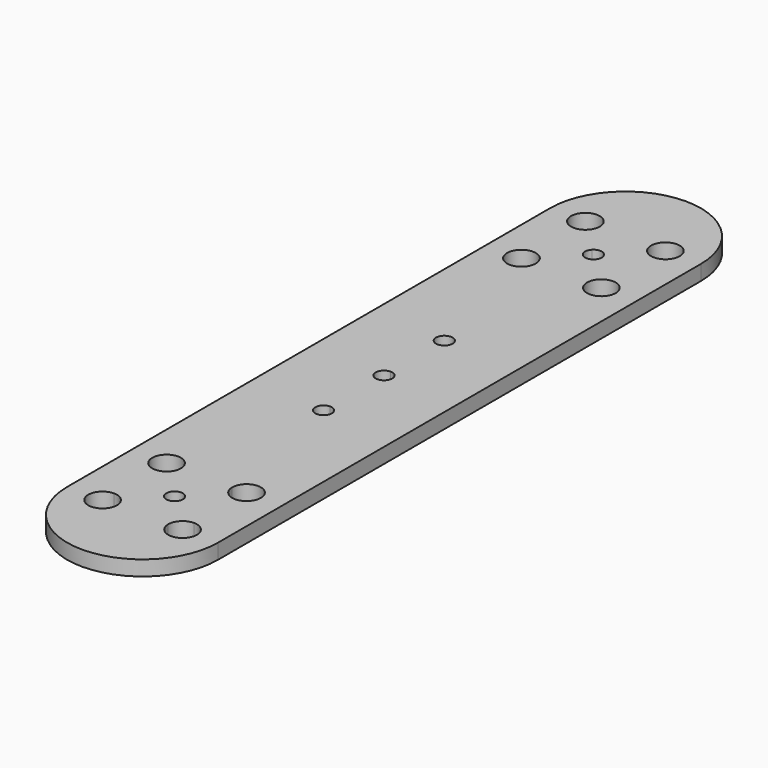
from build123d import *

# Parameters (mm, degrees)
F0_R     = 2.413
F1_DEPTH = 2.54
F2_R     = 1.397
F3_DEPTH = 2.541


with BuildPart() as f1:
    # F0 (on Top) → F1 (new body)
    with BuildSketch(Plane.XY):
        with BuildLine():
            Line((12.7, -50.8), (12.7, 50.8))
            ThreePointArc((12.7, 50.8), (0, 63.5), (-12.7, 50.8))
            Line((-12.7, 50.8), (-12.7, -50.8))
            ThreePointArc((-12.7, -50.8), (0, -63.5), (12.7, -50.8))
        make_face()
        with BuildLine():
            Line((4.318, -50.7966617284), (-4.318, -50.7966617284))
            ThreePointArc((-4.318, -50.7966617284), (-8.437248663, -52.5029103914), (-6.731, -48.3836617284))
            Line((-6.731, -48.3836617284), (-6.731, -39.7476617284))
            ThreePointArc((-6.731, -39.7476617284), (-8.437248663, -35.6284130654), (-4.318, -37.3346617284))
            Line((-4.318, -37.3346617284), (4.318, -37.3346617284))
            ThreePointArc((4.318, -37.3346617284), (6.731, -34.9216617284), (9.144, -37.3346617284))
            ThreePointArc((9.144, -37.3346617284), (8.437248663, -39.0409103914), (6.731, -39.7476617284))
            Line((6.731, -39.7476617284), (6.731, -48.3836617284))
            ThreePointArc((6.731, -48.3836617284), (8.437248663, -49.0904130654), (9.144, -50.7966617284))
            ThreePointArc((9.144, -50.7966617284), (6.731, -53.2096617284), (4.318, -50.7966617284))
        make_face(mode=Mode.SUBTRACT)
        with Locations((-6.731, 37.3346617284)):
            Circle(F0_R, mode=Mode.SUBTRACT)
        with Locations((-6.731, 50.7966617284)):
            Circle(F0_R, mode=Mode.SUBTRACT)
        with Locations((6.731, 37.3346617284)):
            Circle(F0_R, mode=Mode.SUBTRACT)
        with Locations((6.731, 50.7966617284)):
            Circle(F0_R, mode=Mode.SUBTRACT)
        with BuildLine():
            ThreePointArc((-6.731, -48.3836617284), (-5.024751337, -49.0904130654), (-4.318, -50.7966617284))
            Line((-4.318, -50.7966617284), (4.318, -50.7966617284))
            ThreePointArc((4.318, -50.7966617284), (5.024751337, -49.0904130654), (6.731, -48.3836617284))
            Line((6.731, -48.3836617284), (6.731, -39.7476617284))
            ThreePointArc((6.731, -39.7476617284), (5.024751337, -39.0409103914), (4.318, -37.3346617284))
            Line((4.318, -37.3346617284), (-4.318, -37.3346617284))
            ThreePointArc((-4.318, -37.3346617284), (-5.024751337, -39.0409103914), (-6.731, -39.7476617284))
            Line((-6.731, -39.7476617284), (-6.731, -48.3836617284))
        make_face()
    extrude(amount=F1_DEPTH)

    # F2 (on face) → F3 (cut, through all)
    with BuildSketch(Plane.XY.offset(2.54)):
        with BuildLine():
            ThreePointArc((0, -1.397), (0.9878281733, -0.9878281733), (1.397, 0))
            ThreePointArc((1.397, 0), (0.9878281733, 0.9878281733), (0, 1.397))
            Line((0, 1.397), (0, -1.397))
        make_face()
        with BuildLine():
            ThreePointArc((1.397, -12.7112130487), (0.9878281733, -11.7233848754), (0, -11.3142130487))
            ThreePointArc((0, -11.3142130487), (-0.9878281733, -13.699041222), (1.397, -12.7112130487))
        make_face()
        with BuildLine():
            ThreePointArc((1.397, 12.6887869513), (-0.9878281733, 13.6766151246), (0, 11.2917869513))
            ThreePointArc((0, 11.2917869513), (0.9878281733, 11.700958778), (1.397, 12.6887869513))
        make_face()
        with BuildLine():
            Line((0, -1.397), (0, 1.397))
            ThreePointArc((0, 1.397), (-1.397, 0), (0, -1.397))
        make_face()
        with BuildLine():
            ThreePointArc((0.9878281733, 45.0534899017), (0, 45.4626617284), (-0.9878281733, 45.0534899017))
            Line((-0.9878281733, 45.0534899017), (0, 44.0656617284))
            Line((0, 44.0656617284), (0.9878281733, 45.0534899017))
        make_face()
        with BuildLine():
            Line((0, 44.0656617284), (-0.9878281733, 45.0534899017))
            ThreePointArc((-0.9878281733, 45.0534899017), (-1.397, 44.0656617284), (-0.9878281733, 43.0778335551))
            Line((-0.9878281733, 43.0778335551), (0, 44.0656617284))
        make_face()
        with BuildLine():
            Line((0.9878281733, 45.0534899017), (0, 44.0656617284))
            Line((0, 44.0656617284), (0.9878281733, 43.0778335551))
            ThreePointArc((0.9878281733, 43.0778335551), (1.2906597069, 43.5310529734), (1.397, 44.0656617284))
            ThreePointArc((1.397, 44.0656617284), (1.2906597069, 44.6002704834), (0.9878281733, 45.0534899017))
        make_face()
        with BuildLine():
            Line((0.9878281733, 43.0778335551), (0, 44.0656617284))
            Line((0, 44.0656617284), (-0.9878281733, 43.0778335551))
            ThreePointArc((-0.9878281733, 43.0778335551), (0, 42.6686617284), (0.9878281733, 43.0778335551))
        make_face()
        with Locations((0, -44.0656617284)):
            Circle(F2_R)
    extrude(amount=-F3_DEPTH, mode=Mode.SUBTRACT)


solid = f1.part
